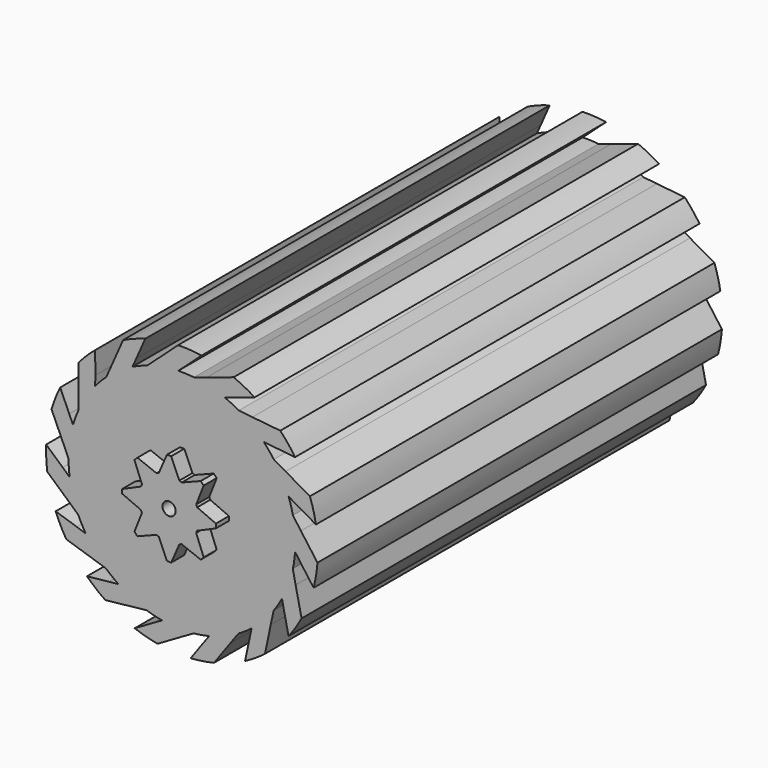
from build123d import *

# Parameters (mm, degrees)
F0_R     = 25.4
F0_R_2   = 24.13
F0_R_3   = 3.556
F1_DEPTH = 59.055
F2_DEPTH = 62.865
F3_R     = 1.5367
F4_DEPTH = 125.73
F5_DEPTH = 125.731


with BuildPart() as f1:
    # F0 (on Front) → F1 (new body, symmetric)
    with BuildSketch(Plane.XZ):
        with BuildLine():
            Line((0.723358, 27.957969), (4.567421, 31.442926))
            ThreePointArc((4.567421, 31.442926), (1.813673, 31.7244), (-0.954126, 31.764951))
            Line((-0.954126, 31.764951), (-5.806847, 27.365564))
            Line((-5.806847, 27.365564), (-8.177952, 25.236904))
            ThreePointArc((-8.177952, 25.236904), (-4.591294, 26.124703), (-0.915998, 26.50483))
            Line((-0.915998, 26.50483), (0.723358, 27.957969))
        make_face()
        with BuildLine():
            Line((12.01784, 25.23491), (16.947025, 26.855055))
            ThreePointArc((16.947025, 26.855055), (14.545837, 28.232245), (12.03382, 29.395055))
            Line((12.03382, 29.395055), (5.811248, 27.349794))
            Line((5.811248, 27.349794), (2.779331, 26.369582))
            ThreePointArc((2.779331, 26.369582), (6.417007, 25.721802), (9.929169, 24.574188))
            Line((9.929169, 24.574188), (12.01784, 25.23491))
        make_face()
        with BuildLine():
            Line((21.228295, 18.153392), (26.390302, 17.628588))
            ThreePointArc((26.390302, 17.628588), (24.756861, 19.863365), (22.934977, 21.947374))
            Line((22.934977, 21.947374), (16.418492, 22.609883))
            Line((16.418492, 22.609883), (13.25001, 22.947606))
            ThreePointArc((13.25001, 22.947606), (16.309715, 20.876254), (19.051458, 18.399331))
            Line((19.051458, 18.399331), (21.228295, 18.153392))
        make_face()
        with BuildLine():
            Line((26.762151, 7.937874), (31.264422, 5.358864))
            ThreePointArc((31.264422, 5.358864), (30.681165, 8.064815), (29.864434, 10.709679))
            Line((29.864434, 10.709679), (24.180795, 13.965405))
            Line((24.180795, 13.965405), (21.423607, 15.562668))
            ThreePointArc((21.423607, 15.562668), (23.376292, 12.425899), (24.873544, 9.04795))
            Line((24.873544, 9.04795), (26.762151, 7.937874))
        make_face()
        with BuildLine():
            ThreePointArc((30.726605, -7.832569), (31.294383, -5.123329), (31.624025, -2.374931))
            Line((31.624025, -2.374931), (27.755986, 2.911067))
            Line((27.755986, 2.911067), (25.886835, 5.491689))
            ThreePointArc((25.886835, 5.491689), (26.313574, 2.774775), (26.456333, 0.02826))
            ThreePointArc((26.456333, 0.02826), (26.439428, -0.917983), (26.388735, -1.863018))
            Line((26.388735, -1.863018), (27.662554, -3.645288))
            Line((27.662554, -3.645288), (30.726605, -7.832569))
        make_face()
        with BuildLine():
            ThreePointArc((24.869847, -19.664794), (26.490485, -17.420716), (27.909502, -15.044007))
            Line((27.909502, -15.044007), (26.525881, -8.641734))
            Line((26.525881, -8.641734), (25.86796, -5.523967))
            ThreePointArc((25.86796, -5.523967), (24.843488, -9.074003), (23.33504, -12.446966))
            Line((23.33504, -12.446966), (23.773817, -14.59326))
            Line((23.773817, -14.59326), (24.869847, -19.664794))
        make_face()
        with BuildLine():
            ThreePointArc((14.706832, -28.091911), (17.100107, -26.701016), (19.363139, -25.10695))
            Line((19.363139, -25.10695), (20.703177, -18.695414))
            Line((20.703177, -18.695414), (21.370247, -15.579591))
            ThreePointArc((21.370247, -15.579591), (18.990415, -18.40602), (16.240471, -20.873835))
            Line((16.240471, -20.873835), (15.768338, -23.013039))
            Line((15.768338, -23.013039), (14.706832, -28.091911))
        make_face()
        with BuildLine():
            ThreePointArc((1.994839, -31.656794), (4.746933, -31.359582), (7.462679, -30.823788))
            Line((7.462679, -30.823788), (11.294672, -25.511601))
            Line((11.294672, -25.511601), (13.17139, -22.936477))
            ThreePointArc((13.17139, -22.936477), (9.847693, -24.550584), (6.331744, -25.686541))
            Line((6.331744, -25.686541), (5.030336, -27.448767))
            Line((5.030336, -27.448767), (1.994839, -31.656794))
        make_face()
        with BuildLine():
            ThreePointArc((-11.068114, -29.743044), (-8.433064, -30.590904), (-5.734178, -31.206026))
            Line((-5.734178, -31.206026), (-0.072818, -27.911714))
            Line((-0.072818, -27.911714), (2.689047, -26.322551))
            ThreePointArc((2.689047, -26.322551), (-1.003818, -26.445241), (-4.677833, -26.052925))
            Line((-4.677833, -26.052925), (-6.58349, -27.133468))
            Line((-6.58349, -27.133468), (-11.068114, -29.743044))
        make_face()
        with BuildLine():
            ThreePointArc((-22.223322, -22.681565), (-20.16094, -24.527895), (-17.945578, -26.187573))
            Line((-17.945578, -26.187573), (-11.43375, -25.480751))
            Line((-11.43375, -25.480751), (-8.264291, -25.15233))
            ThreePointArc((-8.264291, -25.15233), (-11.687793, -23.76239), (-14.884603, -21.909635))
            Line((-14.884603, -21.909635), (-17.065004, -22.121659))
            Line((-17.065004, -22.121659), (-22.223322, -22.681565))
        make_face()
        with BuildLine():
            ThreePointArc((-29.54195, -11.693351), (-28.40884, -14.218904), (-27.060058, -16.636163))
            Line((-27.060058, -16.636163), (-20.823717, -18.639049))
            Line((-20.823717, -18.639049), (-17.794691, -19.628156))
            ThreePointArc((-17.794691, -19.628156), (-20.356876, -16.965919), (-22.523724, -13.973083))
            Line((-22.523724, -13.973083), (-24.601858, -13.279928))
            Line((-24.601858, -13.279928), (-29.54195, -11.693351))
        make_face()
        with BuildLine():
            Line((-27.89086, -2.137091), (-31.75854, 1.321637))
            ThreePointArc((-31.75854, 1.321637), (-31.750627, -1.446448), (-31.501642, -4.203324))
            Line((-31.501642, -4.203324), (-26.619108, -8.569599))
            Line((-26.619108, -8.569599), (-24.254261, -10.70521))
            ThreePointArc((-24.254261, -10.70521), (-25.512104, -7.231001), (-26.274322, -3.615572))
            Line((-26.274322, -3.615572), (-27.89086, -2.137091))
        make_face()
        with BuildLine():
            Line((-26.363313, 9.380156), (-28.489823, 14.112987))
            ThreePointArc((-28.489823, 14.112987), (-29.608476, 11.580998), (-30.502339, 8.961195))
            Line((-30.502339, 8.961195), (-27.817846, 2.986499))
            Line((-27.817846, 2.986499), (-26.526082, 0.073651))
            ThreePointArc((-26.526082, 0.073651), (-26.262091, 3.75911), (-25.487885, 7.371991))
            Line((-25.487885, 7.371991), (-26.363313, 9.380156))
        make_face()
        with BuildLine():
            Line((-20.283343, 19.280375), (-20.30099, 24.468961))
            ThreePointArc((-20.30099, 24.468961), (-22.352784, 22.610871), (-24.234938, 20.581129))
            Line((-24.234938, 20.581129), (-24.21266, 14.03109))
            Line((-24.21266, 14.03109), (-24.217336, 10.844664))
            ThreePointArc((-24.217336, 10.844664), (-22.477157, 14.104123), (-20.300394, 17.089756))
            Line((-20.300394, 17.089756), (-20.283343, 19.280375))
        make_face()
        with BuildLine():
            Line((-10.702232, 25.851728), (-8.607966, 30.598915))
            ThreePointArc((-8.607966, 30.598915), (-11.238126, 29.736005), (-13.783129, 28.647284))
            Line((-13.783129, 28.647284), (-16.426918, 22.654465))
            Line((-16.426918, 22.654465), (-17.727227, 19.745422))
            ThreePointArc((-17.727227, 19.745422), (-14.811752, 22.015292), (-11.608814, 23.857433))
            Line((-11.608814, 23.857433), (-10.702232, 25.851728))
        make_face()
        with BuildLine():
            ThreePointArc((25.886835, 5.491689), (25.442316, 7.287521), (24.873544, 9.04795))
            ThreePointArc((24.873544, 9.04795), (23.376292, 12.425899), (21.423607, 15.562668))
            ThreePointArc((21.423607, 15.562668), (20.287088, 17.02244), (19.051458, 18.399331))
            ThreePointArc((19.051458, 18.399331), (16.309715, 20.876254), (13.25001, 22.947606))
            ThreePointArc((13.25001, 22.947606), (11.618005, 23.818911), (9.929169, 24.574188))
            ThreePointArc((9.929169, 24.574188), (6.417007, 25.721802), (2.779331, 26.369582))
            ThreePointArc((2.779331, 26.369582), (0.934029, 26.501762), (-0.915998, 26.50483))
            ThreePointArc((-0.915998, 26.50483), (-4.591294, 26.124703), (-8.177952, 25.236904))
            ThreePointArc((-8.177952, 25.236904), (-9.917482, 24.607104), (-11.608814, 23.857433))
            ThreePointArc((-11.608814, 23.857433), (-14.811752, 22.015292), (-17.727227, 19.745422))
            ThreePointArc((-17.727227, 19.745422), (-19.060203, 18.462541), (-20.300394, 17.089756))
            ThreePointArc((-20.300394, 17.089756), (-22.477157, 14.104123), (-24.217336, 10.844664))
            ThreePointArc((-24.217336, 10.844664), (-24.913276, 9.130523), (-25.487885, 7.371991))
            ThreePointArc((-25.487885, 7.371991), (-26.262091, 3.75911), (-26.526082, 0.073651))
            ThreePointArc((-26.526082, 0.073651), (-26.464651, -1.775358), (-26.274322, -3.615572))
            ThreePointArc((-26.274322, -3.615572), (-25.512104, -7.231001), (-24.254261, -10.70521))
            ThreePointArc((-24.254261, -10.70521), (-23.446081, -12.369378), (-22.523724, -13.973083))
            ThreePointArc((-22.523724, -13.973083), (-20.356876, -16.965919), (-17.794691, -19.628156))
            ThreePointArc((-17.794691, -19.628156), (-16.379504, -20.819733), (-14.884603, -21.909635))
            ThreePointArc((-14.884603, -21.909635), (-11.687793, -23.76239), (-8.264291, -25.15233))
            ThreePointArc((-8.264291, -25.15233), (-6.486795, -25.665281), (-4.677833, -26.052925))
            ThreePointArc((-4.677833, -26.052925), (-1.003818, -26.445241), (2.689047, -26.322551))
            ThreePointArc((2.689047, -26.322551), (4.521506, -26.068182), (6.331744, -25.686541))
            ThreePointArc((6.331744, -25.686541), (9.847693, -24.550584), (13.17139, -22.936477))
            ThreePointArc((13.17139, -22.936477), (14.741964, -21.958771), (16.240471, -20.873835))
            ThreePointArc((16.240471, -20.873835), (18.990415, -18.40602), (21.370247, -15.579591))
            ThreePointArc((21.370247, -15.579591), (22.407369, -14.047603), (23.33504, -12.446966))
            ThreePointArc((23.33504, -12.446966), (24.843488, -9.074003), (25.86796, -5.523967))
            ThreePointArc((25.86796, -5.523967), (26.192303, -3.70259), (26.388735, -1.863018))
            ThreePointArc((26.388735, -1.863018), (26.439428, -0.917983), (26.456333, 0.02826))
            ThreePointArc((26.456333, 0.02826), (26.313574, 2.774775), (25.886835, 5.491689))
        make_face()
        with Locations((-0.034894, 0.02826)):
            Circle(F0_R, mode=Mode.SUBTRACT)
        with Locations((-0.034894, 0.02826)):
            Circle(F0_R)
        with Locations((-0.034894, 0.02826)):
            Circle(F0_R_2, mode=Mode.SUBTRACT)
        with Locations((-0.034894, 0.02826)):
            Circle(F0_R_2)
        Circle(F0_R_3, mode=Mode.SUBTRACT)
    extrude(amount=F1_DEPTH, both=True)

    # F0 (on Front) → F2 (join, symmetric)
    with BuildSketch(Plane.XZ):
        Circle(F0_R_3)
    extrude(amount=F2_DEPTH, both=True)

    # F3 (on face) → F4 (join)
    with BuildSketch(Plane(origin=(0, 62.865, 0), x_dir=(-1, 0, 0), z_dir=(0, 1, 0))):
        with BuildLine():
            ThreePointArc((6.558725, -2.402779), (6.877606, -1.220149), (6.985, 0))
            ThreePointArc((6.985, 0), (6.985, 0.001415), (6.984999, 0.00283))
            ThreePointArc((6.984999, 0.00283), (6.876806, 1.224651), (6.556551, 2.408707))
            ThreePointArc((6.556551, 2.408707), (6.45209, 2.67596), (6.33674, 2.938698))
            ThreePointArc((6.33674, 2.938698), (5.725167, 4.001586), (4.93714, 4.941141))
            ThreePointArc((4.93714, 4.941141), (3.996677, 5.728595), (2.932968, 6.339394))
            ThreePointArc((2.932968, 6.339394), (2.670127, 6.454506), (2.402779, 6.558725))
            ThreePointArc((2.402779, 6.558725), (1.218756, 6.877853), (-0.00283, 6.984999))
            ThreePointArc((-0.00283, 6.984999), (-1.224651, 6.876806), (-2.408707, 6.556551))
            ThreePointArc((-2.408707, 6.556551), (-2.67596, 6.45209), (-2.938698, 6.33674))
            ThreePointArc((-2.938698, 6.33674), (-4.001586, 5.725167), (-4.941141, 4.93714))
            ThreePointArc((-4.941141, 4.93714), (-5.728595, 3.996677), (-6.339394, 2.932968))
            ThreePointArc((-6.339394, 2.932968), (-6.454506, 2.670127), (-6.558725, 2.402779))
            ThreePointArc((-6.558725, 2.402779), (-6.877853, 1.218756), (-6.984999, -0.00283))
            ThreePointArc((-6.984999, -0.00283), (-6.876806, -1.224651), (-6.556551, -2.408707))
            ThreePointArc((-6.556551, -2.408707), (-6.45209, -2.67596), (-6.33674, -2.938698))
            ThreePointArc((-6.33674, -2.938698), (-5.725167, -4.001586), (-4.93714, -4.941141))
            ThreePointArc((-4.93714, -4.941141), (-3.996677, -5.728595), (-2.932968, -6.339394))
            ThreePointArc((-2.932968, -6.339394), (-2.670127, -6.454506), (-2.402779, -6.558725))
            ThreePointArc((-2.402779, -6.558725), (-1.218756, -6.877853), (0.00283, -6.984999))
            ThreePointArc((0.00283, -6.984999), (1.224651, -6.876806), (2.408707, -6.556551))
            ThreePointArc((2.408707, -6.556551), (2.67596, -6.45209), (2.938698, -6.33674))
            ThreePointArc((2.938698, -6.33674), (4.001586, -5.725167), (4.941141, -4.93714))
            ThreePointArc((4.941141, -4.93714), (5.728595, -3.996677), (6.339394, -2.932968))
            ThreePointArc((6.339394, -2.932968), (6.454506, -2.670127), (6.558725, -2.402779))
        make_face()
        Circle(F3_R, mode=Mode.SUBTRACT)
        with BuildLine():
            ThreePointArc((6.984999, 0.00283), (6.985, 0.001415), (6.985, 0))
            ThreePointArc((6.985, 0), (6.877606, -1.220149), (6.558725, -2.402779))
            Line((6.558725, -2.402779), (10.94016, -0.49247))
            Line((10.94016, -0.49247), (10.94016, 0.00283))
            Line((10.94016, 0.00283), (6.984999, 0.00283))
        make_face()
        with BuildLine():
            ThreePointArc((6.556551, 2.408707), (6.876806, 1.224651), (6.984999, 0.00283))
            Line((6.984999, 0.00283), (10.94016, 0.00283))
            Line((10.94016, 0.00283), (10.94016, 0.49813))
            Line((10.94016, 0.49813), (6.556551, 2.408707))
        make_face()
        with BuildLine():
            Line((8.088092, -7.38363), (6.339394, -2.932968))
            ThreePointArc((6.339394, -2.932968), (5.728595, -3.996677), (4.941141, -4.93714))
            Line((4.941141, -4.93714), (7.737862, -7.73386))
            Line((7.737862, -7.73386), (8.088092, -7.38363))
        make_face()
        with BuildLine():
            ThreePointArc((4.93714, 4.941141), (5.725167, 4.001586), (6.33674, 2.938698))
            Line((6.33674, 2.938698), (8.08409, 7.387632))
            Line((8.08409, 7.387632), (7.73386, 7.737862))
            Line((7.73386, 7.737862), (4.93714, 4.941141))
        make_face()
        with BuildLine():
            Line((7.737862, -7.73386), (4.941141, -4.93714))
            ThreePointArc((4.941141, -4.93714), (4.001586, -5.725167), (2.938698, -6.33674))
            Line((2.938698, -6.33674), (7.387632, -8.08409))
            Line((7.387632, -8.08409), (7.737862, -7.73386))
        make_face()
        with BuildLine():
            ThreePointArc((2.932968, 6.339394), (3.996677, 5.728595), (4.93714, 4.941141))
            Line((4.93714, 4.941141), (7.73386, 7.737862))
            Line((7.73386, 7.737862), (7.38363, 8.088092))
            Line((7.38363, 8.088092), (2.932968, 6.339394))
        make_face()
        with BuildLine():
            Line((0.49813, -10.94016), (2.408707, -6.556551))
            ThreePointArc((2.408707, -6.556551), (1.224651, -6.876806), (0.00283, -6.984999))
            Line((0.00283, -6.984999), (0.00283, -10.94016))
            Line((0.00283, -10.94016), (0.49813, -10.94016))
        make_face()
        with BuildLine():
            ThreePointArc((-0.00283, 6.984999), (1.218756, 6.877853), (2.402779, 6.558725))
            Line((2.402779, 6.558725), (0.49247, 10.94016))
            Line((0.49247, 10.94016), (-0.00283, 10.94016))
            Line((-0.00283, 10.94016), (-0.00283, 6.984999))
        make_face()
        with BuildLine():
            Line((0.00283, -10.94016), (0.00283, -6.984999))
            ThreePointArc((0.00283, -6.984999), (-1.218756, -6.877853), (-2.402779, -6.558725))
            Line((-2.402779, -6.558725), (-0.49247, -10.94016))
            Line((-0.49247, -10.94016), (0.00283, -10.94016))
        make_face()
        with BuildLine():
            ThreePointArc((-2.408707, 6.556551), (-1.224651, 6.876806), (-0.00283, 6.984999))
            Line((-0.00283, 6.984999), (-0.00283, 10.94016))
            Line((-0.00283, 10.94016), (-0.49813, 10.94016))
            Line((-0.49813, 10.94016), (-2.408707, 6.556551))
        make_face()
        with BuildLine():
            Line((-7.38363, -8.088092), (-2.932968, -6.339394))
            ThreePointArc((-2.932968, -6.339394), (-3.996677, -5.728595), (-4.93714, -4.941141))
            Line((-4.93714, -4.941141), (-7.73386, -7.737862))
            Line((-7.73386, -7.737862), (-7.38363, -8.088092))
        make_face()
        with BuildLine():
            ThreePointArc((-4.941141, 4.93714), (-4.001586, 5.725167), (-2.938698, 6.33674))
            Line((-2.938698, 6.33674), (-7.387632, 8.08409))
            Line((-7.387632, 8.08409), (-7.737862, 7.73386))
            Line((-7.737862, 7.73386), (-4.941141, 4.93714))
        make_face()
        with BuildLine():
            Line((-7.73386, -7.737862), (-4.93714, -4.941141))
            ThreePointArc((-4.93714, -4.941141), (-5.725167, -4.001586), (-6.33674, -2.938698))
            Line((-6.33674, -2.938698), (-8.08409, -7.387632))
            Line((-8.08409, -7.387632), (-7.73386, -7.737862))
        make_face()
        with BuildLine():
            ThreePointArc((-6.339394, 2.932968), (-5.728595, 3.996677), (-4.941141, 4.93714))
            Line((-4.941141, 4.93714), (-7.737862, 7.73386))
            Line((-7.737862, 7.73386), (-8.088092, 7.38363))
            Line((-8.088092, 7.38363), (-6.339394, 2.932968))
        make_face()
        with BuildLine():
            Line((-10.94016, -0.49813), (-6.556551, -2.408707))
            ThreePointArc((-6.556551, -2.408707), (-6.876806, -1.224651), (-6.984999, -0.00283))
            Line((-6.984999, -0.00283), (-10.94016, -0.00283))
            Line((-10.94016, -0.00283), (-10.94016, -0.49813))
        make_face()
        with BuildLine():
            ThreePointArc((-6.984999, -0.00283), (-6.877853, 1.218756), (-6.558725, 2.402779))
            Line((-6.558725, 2.402779), (-10.94016, 0.49247))
            Line((-10.94016, 0.49247), (-10.94016, -0.00283))
            Line((-10.94016, -0.00283), (-6.984999, -0.00283))
        make_face()
    extrude(amount=-F4_DEPTH)

    # F3 (on face) → F5 (cut, through all)
    with BuildSketch(Plane(origin=(0, 62.865, 0), x_dir=(-1, 0, 0), z_dir=(0, 1, 0))):
        Circle(F3_R)
    extrude(amount=-F5_DEPTH, mode=Mode.SUBTRACT)


solid = f1.part
